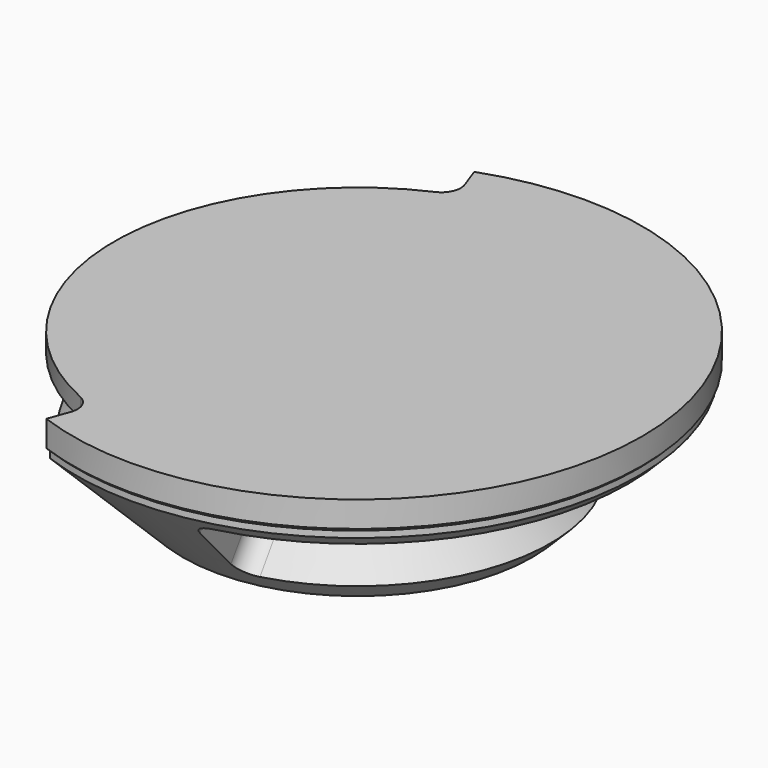
from build123d import *

# Parameters (mm, degrees)
F3_W           = 8.3933982822
F3_H           = 16.3933982822
F4_ANGLE_BACK  = 70
F4_ANGLE       = 140
F6_ANGLE_START = 100
F6_ANGLE       = 160
F7_ANGLE_BACK  = 70
F7_ANGLE       = 140
F8_R           = 3
F8_2_R         = 3
F9_R           = 3
F13_DEPTH      = 10
F14_R          = 22
F15_DEPTH      = 1.5


with BuildPart() as f1:
    # F0 (on Front) → F1 (revolve)
    with BuildSketch(Plane.XZ):
        Polygon((-43.5, 14.5), (-27, -2), (0, -2), (0, 20), (-44, 20), (-44, 16), (-43.5, 15.5), align=None)
    revolve(axis=Axis((0, 0, 9.4880101401), (0, 0, -1)))


with BuildPart() as f4:
    # F3 (on Front) → F4 (revolve)
    with BuildSketch(Plane.XZ, mode=Mode.PRIVATE) as f4_sk:
        with Locations((-41.8033008589, 16.8033008589)):
            Rectangle(F3_W, F3_H)
    revolve(f4_sk.sketch.rotate(Axis((0, 0, 9.4880101401), (0, 0, -1)), -F4_ANGLE_BACK), axis=Axis((0, 0, 9.4880101401), (0, 0, -1)), revolution_arc=F4_ANGLE)

    # F8#2
    f8_2_edges = [f4.edges().sort_by_distance(p)[0] for p in [
        (-12.862215, 35.338646, 16.803301),
        (-12.862215, -35.338646, 16.803301),
    ]]
    fillet(f8_2_edges, radius=F8_2_R)


with BuildPart() as f6:
    # F5 (on Front) → F6 (revolve)
    with BuildSketch(Plane.XZ, mode=Mode.PRIVATE) as f6_sk:
        Polygon((-36.8994949366, -6.2426406871), (-25.5857864376, 5.0710678119), (-37.6066017178, 17.091883092), (-48.9203102168, 5.7781745931), align=None)
    revolve(f6_sk.sketch.rotate(Axis((0, 0, 9), (0, 0, -1)), F6_ANGLE_START), axis=Axis((0, 0, 9), (0, 0, -1)), revolution_arc=F6_ANGLE)

    # F9
    f9_edges = [f6.edges().sort_by_distance(p)[0] for p in [
        (5.425228, 30.767995, -0.585786),
        (7.51262, 42.606187, 11.435029),
        (7.51262, -42.606187, 11.435029),
        (5.425228, -30.767995, -0.585786),
    ]]
    fillet(f9_edges, radius=F9_R)


with BuildPart() as f7:
    # F2 (on Front) → F7 (revolve)
    with BuildSketch(Plane.XZ, mode=Mode.PRIVATE) as f7_sk:
        Polygon((-41.2877159425, 2.0970603683), (-31.9497474683, 11.4350288425), (-37.6066017178, 17.091883092), (-46.944570192, 7.7539146178), align=None)
    revolve(f7_sk.sketch.rotate(Axis((0, 0, 9), (0, 0, -1)), -F7_ANGLE_BACK), axis=Axis((0, 0, 9), (0, 0, -1)), revolution_arc=F7_ANGLE)

    # F8
    f8_edges = [f7.edges().sort_by_distance(p)[0] for p in [
        (-12.524344, -34.410352, 6.766045),
        (-12.524344, 34.410352, 6.766045),
    ]]
    fillet(f8_edges, radius=F8_R)


with BuildPart() as f1_1:
    add(f1.part)

    # F10: cut F7, F4, F6
    add(f7.part, mode=Mode.SUBTRACT)
    add(f4.part, mode=Mode.SUBTRACT)
    add(f6.part, mode=Mode.SUBTRACT)

    # F12 (on offset) → F13 (cut)
    with BuildSketch(Plane(origin=(0, 0, -2), x_dir=(1, 0, 0), z_dir=(0, 0, -1))):
        with BuildLine():
            ThreePointArc((-11, 2.5), (-13.5, 0), (-11, -2.5))
            Line((-11, -2.5), (0, -2.5))
            Line((0, -2.5), (11, -2.5))
            ThreePointArc((11, -2.5), (13.5, 0), (11, 2.5))
            Line((11, 2.5), (0, 2.5))
            Line((0, 2.5), (-11, 2.5))
        make_face()
    extrude(amount=-F13_DEPTH, mode=Mode.SUBTRACT)

    # F14 (on offset) → F15 (cut)
    with BuildSketch(Plane(origin=(0, 0, -2), x_dir=(1, 0, 0), z_dir=(0, 0, -1))):
        Circle(F14_R)
    extrude(amount=-F15_DEPTH, mode=Mode.SUBTRACT)


solid = f1_1.part
